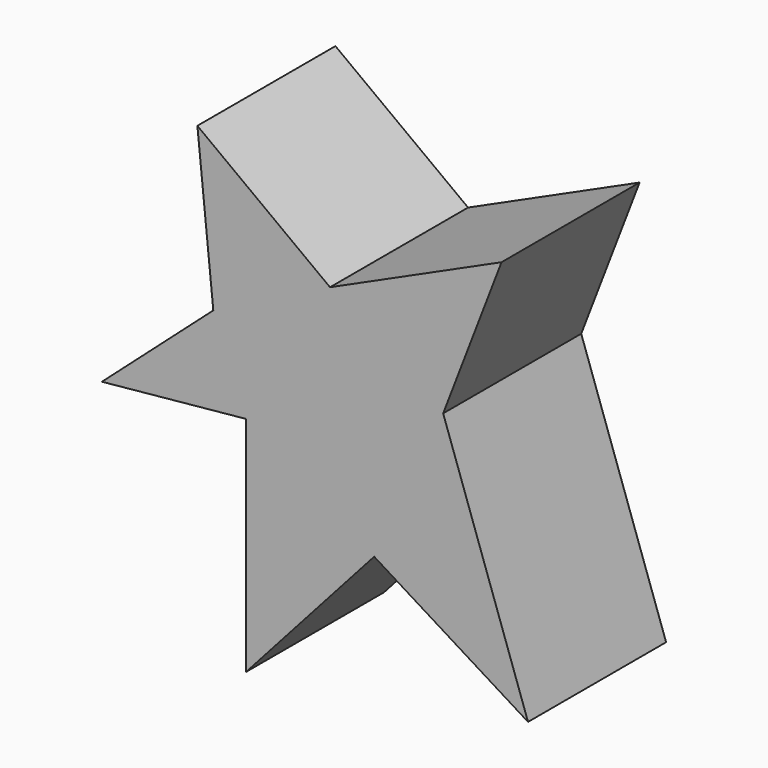
from build123d import *

# Parameters (mm, degrees)
F1_DEPTH = 12.7
F2_DEPTH = 25.4


with BuildPart() as f1:
    # F0 (on Front) → F1 (new body, symmetric)
    with BuildSketch(Plane.XZ):
        Polygon((0, 49.1850636899), (0, 0), (28.3009279519, 31.6189676523), (62.2620396316, 10.5396574363), (43.5248762369, 64.4090101123), (56.406673044, 97.9797616601), (18.5419917107, 80.804027617), (-10.7348347083, 102.6640534401), (-7.2216112167, 67.9222270846), (-31.8141430616, 46.0622012615), align=None)
    extrude(amount=F1_DEPTH, both=True)

    # F0 (on Front) → F2 (join)
    with BuildSketch(Plane.XZ):
        Polygon((0, 49.1850636899), (0, 0), (28.3009279519, 31.6189676523), (62.2620396316, 10.5396574363), (43.5248762369, 64.4090101123), (56.406673044, 97.9797616601), (18.5419917107, 80.804027617), (-10.7348347083, 102.6640534401), (-7.2216112167, 67.9222270846), (-31.8141430616, 46.0622012615), align=None)
    extrude(amount=F2_DEPTH)


solid = f1.part
